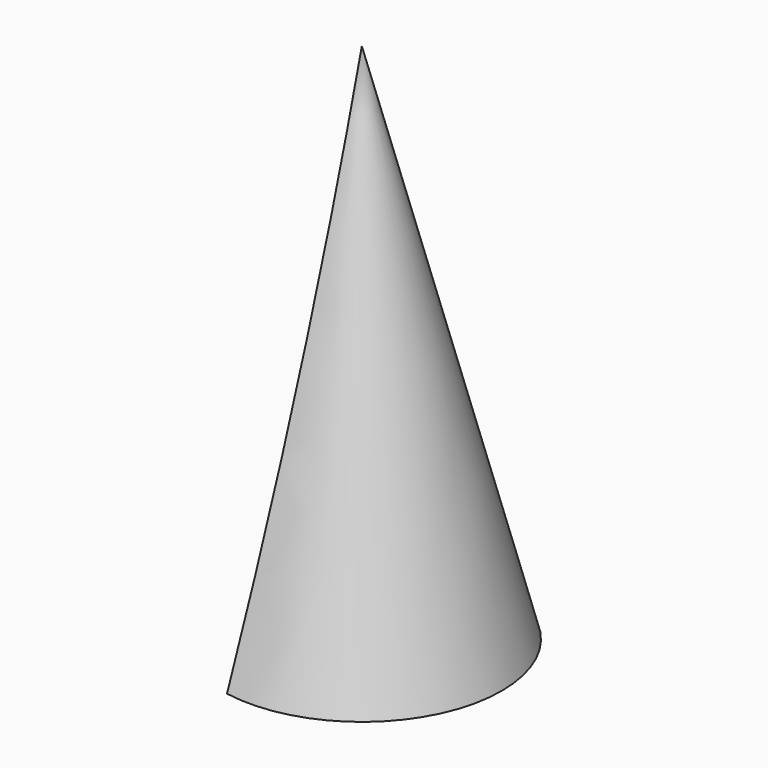
from build123d import *

# Parameters (mm, degrees)
F2_W = 51.1
F2_H = 70


with BuildPart() as f1:
    # F0 (on Front) → F1 (revolve)
    with BuildSketch(Plane.XZ):
        Polygon((-18, 0), (-15, 0), (0, 55.980762), (0, 67.176915), align=None)
    revolve(axis=Axis((0, 0, -5.671357), (0, 0, -1)))

    # F2 (on Front) → F3 (revolve, cut)
    with BuildSketch(Plane.XZ):
        with Locations((-25.55, 35)):
            Rectangle(F2_W, F2_H)
    revolve(axis=Axis((-51.1, 0, 35), (0, 0, 1)), mode=Mode.SUBTRACT)


solid = f1.part
